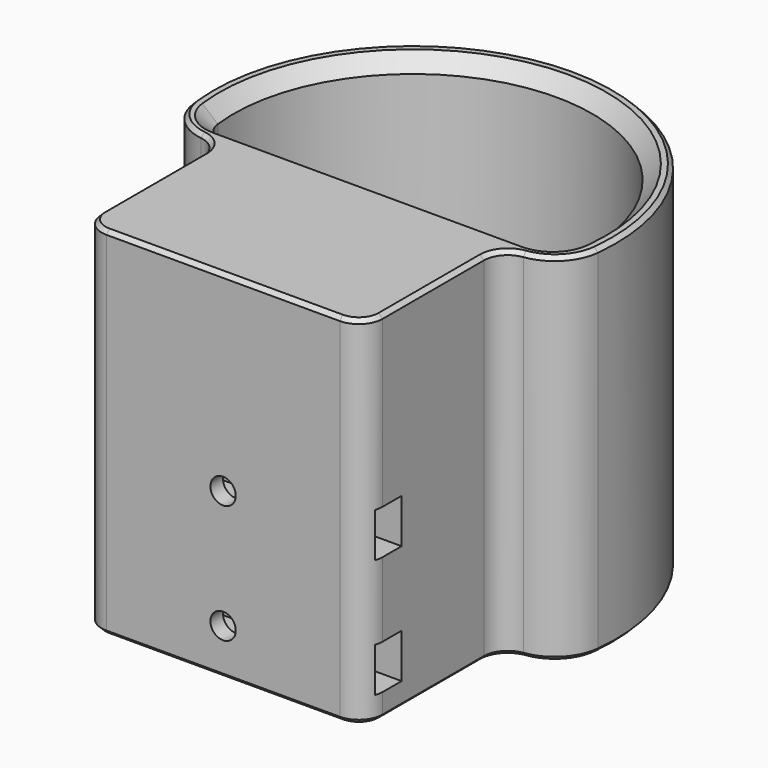
from build123d import *

# Parameters (mm, degrees)
CYLINDER001_R     = 3.6
CYLINDER001_DEPTH = 10
CYLINDER_R        = 1.6
CYLINDER_DEPTH    = 10
BOX_W             = 35
BOX_H             = 25
BOX_DEPTH         = 3.75
FILLET_R          = 3
CHAMFER_SIZE      = 0.5
CYLINDER002_R     = 1.6
CYLINDER002_DEPTH = 40
SKETCH002_W       = 50
SKETCH002_H       = 4
EXTRUDE002_DEPTH  = 5.6
EXTRUDE003_DEPTH  = 10
EXTRUDE_DEPTH     = 45
EXTRUDE001_DEPTH  = 45
CHAMFER001_SIZE   = 1.8
CHAMFER002_SIZE   = 0.5
FILLET001_R       = 1


with BuildPart() as cylinder001:
    # Cylinder001 → Cylinder001 (new body)
    with BuildSketch(Plane(origin=(-7.5, 0, 2), x_dir=(1, 0, 0), z_dir=(0, 0, 1))):
        Circle(CYLINDER001_R)
    extrude(amount=CYLINDER001_DEPTH)


with BuildPart() as fusion:
    # Cylinder → Cylinder (new body)
    with BuildSketch(Plane(origin=(-7.5, 0, -1), x_dir=(1, 0, 0), z_dir=(0, 0, 1))):
        Circle(CYLINDER_R)
    extrude(amount=CYLINDER_DEPTH)

    # Fusion: union Cylinder001
    add(cylinder001.part)


with BuildPart() as part_mirroring:
    # Part__Mirroring: instance of Fusion
    add(fusion.part.mirror(Plane(origin=(0, 0, 0), x_dir=(0, -1, 0), z_dir=(1, 0, 0))))


with BuildPart() as fusion001:
    # Fusion001 base: copy of Fusion
    add(fusion.part)

    # Fusion001: union Part__Mirroring
    add(part_mirroring.part)


with BuildPart() as mountplate:
    # Box → Box (new body)
    with BuildSketch(Plane(origin=(-17.5, -12.5, 0), x_dir=(1, 0, 0), z_dir=(0, 0, 1))):
        with Locations((17.5, 12.5)):
            Rectangle(BOX_W, BOX_H)
    extrude(amount=BOX_DEPTH)

    # Cut001: cut Fusion001
    add(fusion001.part, mode=Mode.SUBTRACT)

    # Fillet
    fillet_edges = [mountplate.edges().sort_by_distance(p)[0] for p in [
        (-17.5, -12.5, 1.875),
        (-17.5, 12.5, 1.875),
        (17.5, -12.5, 1.875),
        (17.5, 12.5, 1.875),
    ]]
    fillet(fillet_edges, radius=FILLET_R)

    # Chamfer
    chamfer_edges = [mountplate.edges().sort_by_distance(p)[0] for p in [
        (-17.5, 0, 3.75),
        (-17.5, 0, 0),
        (-16.62132, -11.62132, 3.75),
        (-16.62132, 11.62132, 3.75),
        (0, -12.5, 3.75),
        (0, 12.5, 3.75),
        (16.62132, -11.62132, 3.75),
        (16.62132, 11.62132, 3.75),
        (17.5, 0, 3.75),
        (-11.1, 0, 3.75),
        (11.1, 0, 3.75),
        (-16.62132, -11.62132, 0),
        (-16.62132, 11.62132, 0),
        (0, -12.5, 0),
        (0, 12.5, 0),
        (16.62132, -11.62132, 0),
        (16.62132, 11.62132, 0),
        (17.5, 0, 0),
        (-9.1, 0, 0),
        (9.1, 0, 0),
    ]]
    chamfer(chamfer_edges, length=CHAMFER_SIZE)


with BuildPart() as cylinder002:
    # Cylinder002 → Cylinder002 (new body)
    with BuildSketch(Plane(origin=(0, -14, 5.8), x_dir=(1, 0, 0), z_dir=(0, -1, 0))):
        Circle(CYLINDER002_R)
    extrude(amount=CYLINDER002_DEPTH)


with BuildPart() as body002:
    # Body002 base: copy of Cylinder002
    add(cylinder002.part)


with BuildPart() as body002_1:
    # Body002 placement: moved
    add(body002.part.moved(Location((0, 0, 15))))


with BuildPart() as m3_screw_holes:
    # Fusion003 base: copy of Cylinder002
    add(cylinder002.part)

    # Fusion003: union Body002
    add(body002_1.part)


with BuildPart() as nutspace:
    # Sketch002 → Extrude002 (new body)
    with BuildSketch(Plane.XY):
        with Locations((0, -20.64647)):
            Rectangle(SKETCH002_W, SKETCH002_H)
    extrude(amount=EXTRUDE002_DEPTH)


with BuildPart() as nutspace_1:
    # Extrude002 placement: moved
    add(nutspace.part.moved(Location((0, 0, 3))))


with BuildPart() as nutspace2:
    # Body001 base: copy of nutspace
    add(nutspace_1.part)


with BuildPart() as nutspace2_1:
    # Clone placement: moved
    add(nutspace2.part.moved(Location((0, 0, -3))))


with BuildPart() as nutspace2_2:
    # Body001 placement: moved
    add(nutspace2_1.part.moved(Location((0, 0, 18))))


with BuildPart() as extrude003:
    # Sketch003 → Extrude003 (new body, symmetric)
    with BuildSketch(Plane.XY):
        with BuildLine():
            ThreePointArc((18.983782, 6.123926), (0, 24.339059), (-18.983782, 6.123926))
            ThreePointArc((-18.983782, 6.123926), (-18.151034, 3.922956), (-15.986343, 3))
            Line((-15.986343, 3), (15.986345, 3))
            ThreePointArc((15.986345, 3), (18.151035, 3.922957), (18.983782, 6.123926))
        make_face()
    extrude(amount=EXTRUDE003_DEPTH, both=True)


with BuildPart() as m3_nut_inserts:
    # Fusion002 base: copy of nutspace
    add(nutspace_1.part)

    # Fusion002: union nutspace2, Extrude003
    add(nutspace2_2.part)
    add(extrude003.part)


with BuildPart() as extrude_body:
    # Sketch → Extrude (new body)
    with BuildSketch(Plane.XY):
        with BuildLine():
            ThreePointArc((22.5, 2.64309), (0, 28), (-22.5, 2.64309))
            ThreePointArc((-22.5, 2.64309), (-21.512446, 0.756038), (-19.521306, 0))
            Line((-19.521306, 0), (19.521306, 0))
            ThreePointArc((19.521306, 0), (21.512446, 0.756038), (22.5, 2.64309))
        make_face()
    extrude(amount=EXTRUDE_DEPTH)


with BuildPart() as extrude_body_1:
    # Extrude placement: moved
    add(extrude_body.part.moved(Location((0, 0, 3))))


with BuildPart() as remoteholder:
    # Sketch001 → Extrude001 (new body)
    with BuildSketch(Plane.XY):
        with BuildLine():
            ThreePointArc((-17.75, -21.64647), (-16.87132, -23.767791), (-14.75, -24.64647))
            Line((-14.75, -24.64647), (14.75, -24.64647))
            ThreePointArc((14.75, -24.64647), (16.87132, -23.767791), (17.75, -21.64647))
            Line((17.75, -21.64647), (17.75, -5.64647))
            ThreePointArc((20.350711, -2.673161), (18.491918, -3.671359), (17.75, -5.64647))
            ThreePointArc((20.350711, -2.673161), (23.854248, -0.908862), (25.518927, 2.64309))
            ThreePointArc((25.518927, 2.64309), (0, 31), (-25.518927, 2.64309))
            ThreePointArc((-25.518927, 2.64309), (-23.854248, -0.908862), (-20.350711, -2.673161))
            ThreePointArc((-17.75, -5.64647), (-18.491918, -3.671359), (-20.350711, -2.673161))
            Line((-17.75, -21.64647), (-17.75, -5.64647))
        make_face()
    extrude(amount=EXTRUDE001_DEPTH)

    # Cut: cut Extrude body
    add(extrude_body_1.part, mode=Mode.SUBTRACT)

    # Cut002: cut M3_nut_inserts
    add(m3_nut_inserts.part, mode=Mode.SUBTRACT)

    # Cut003: cut M3_screw_holes
    add(m3_screw_holes.part, mode=Mode.SUBTRACT)

    # Chamfer001
    chamfer001_edges = [remoteholder.edges().sort_by_distance(p)[0] for p in [
        (-21.512446, 0.756038, 45),
        (0, 0, 45),
        (21.512446, 0.756038, 45),
        (0, 28, 45),
    ]]
    chamfer(chamfer001_edges, length=CHAMFER001_SIZE)

    # Chamfer002
    chamfer002_edges = [remoteholder.edges().sort_by_distance(p)[0] for p in [
        (-16.87132, -23.767791, 45),
        (-17.75, -13.64647, 45),
        (0, -24.64647, 45),
        (-18.491918, -3.671359, 45),
        (16.87132, -23.767791, 45),
        (-23.854248, -0.908862, 45),
        (17.75, -13.64647, 45),
        (0, 31, 45),
        (18.491918, -3.671359, 45),
        (23.854248, -0.908862, 45),
        (-16.87132, -23.767791, 0),
        (-17.75, -13.64647, 0),
        (0, -24.64647, 0),
        (-18.491918, -3.671359, 0),
        (16.87132, -23.767791, 0),
        (-23.854248, -0.908862, 0),
        (17.75, -13.64647, 0),
        (0, 31, 0),
        (18.491918, -3.671359, 0),
        (23.854248, -0.908862, 0),
        (-18.151034, 3.922956, 0),
        (1e-06, 3, 0),
        (18.151035, 3.922957, 0),
        (0, 24.339059, 0),
        (-18.151034, 3.922956, 3),
        (1e-06, 3, 3),
        (18.151035, 3.922957, 3),
        (0, 24.339059, 3),
    ]]
    chamfer(chamfer002_edges, length=CHAMFER002_SIZE)

    # Fillet001
    fillet001_edges = [remoteholder.edges().sort_by_distance(p)[0] for p in [
        (-21.512446, 0.756038, 3),
        (0, 0, 3),
        (0, 28, 3),
        (21.512446, 0.756038, 3),
    ]]
    fillet(fillet001_edges, radius=FILLET001_R)


solid = Compound([mountplate.part, remoteholder.part])
